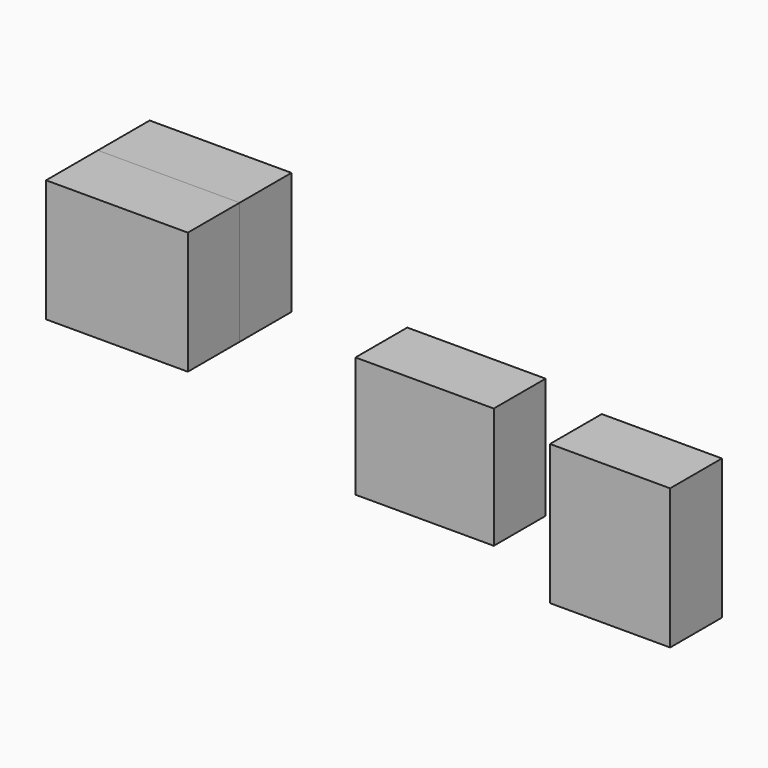
from build123d import *

# Parameters (mm, degrees)
F0_W      = 54.741092
F0_H      = 47.283376
F0_W_2    = 53.405944
F0_H_2    = 46.667445
F0_W_3    = 46.396409
F0_H_3    = 54.115518
F1_DEPTH  = 25
F1_FACE_W = 54.741092
F1_FACE_H = 47.283376
F2_DEPTH  = 25


with BuildPart() as f1:
    # F0 (on Front) → F1 (new body)
    with BuildSketch(Plane.XZ):
        with Locations((-131.011453, 29.939039)):
            Rectangle(F0_W, F0_H)
        with Locations((-32.21046, -7.796317)):
            Rectangle(F0_W_2, F0_H_2)
        with Locations((39.386882, -16.501215)):
            Rectangle(F0_W_3, F0_H_3)
    extrude(amount=F1_DEPTH)


with BuildPart() as f2:
    # F1_face (on face) → F2 (new body)
    with BuildSketch(Plane(origin=(-131.011453, -25, 29.939039), x_dir=(1, 0, 0), z_dir=(0, -1, 0))):
        Rectangle(F1_FACE_W, F1_FACE_H)
    extrude(amount=F2_DEPTH)


solid = Compound([f1.part, f2.part])
